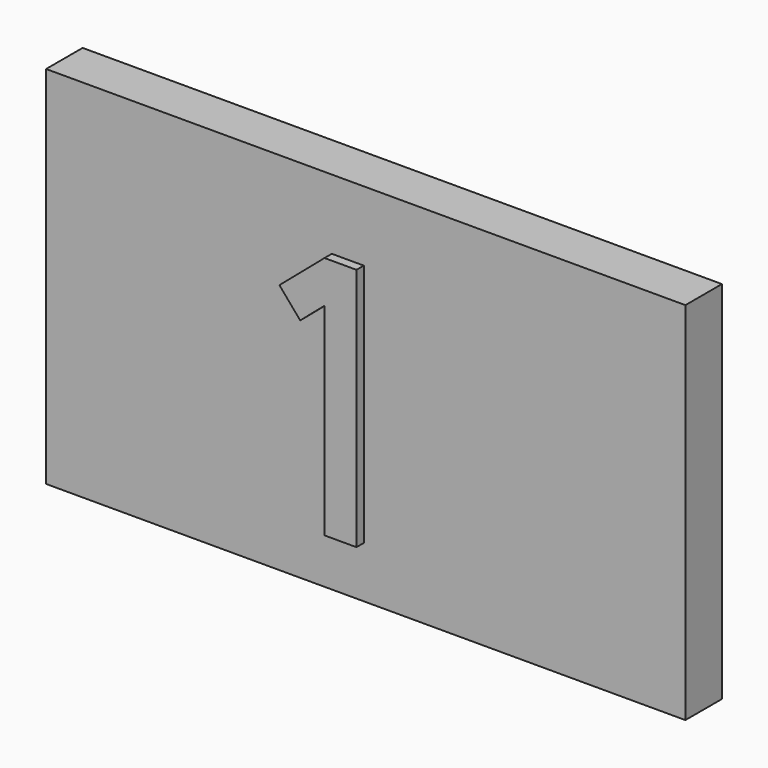
from build123d import *

# Parameters (mm, degrees)
F0_W     = 177.8
F0_H     = 101.6
F1_DEPTH = 12.7
F3_DEPTH = 2.54


with BuildPart() as f1:
    # F0 (on Front) → F1 (new body)
    with BuildSketch(Plane.XZ):
        with Locations((88.9, 50.8)):
            Rectangle(F0_W, F0_H)
    extrude(amount=-F1_DEPTH)

    # F2 (on face) → F3 (join)
    with BuildSketch(Plane.XZ):
        Polygon((88.351311, 82.193203), (79.461311, 82.193203), (66.927159, 71.475897), (72.704532, 64.719118), (79.461311, 70.496491), (79.461311, 14.28214), (88.351311, 14.28214), align=None)
    extrude(amount=F3_DEPTH)


solid = f1.part
